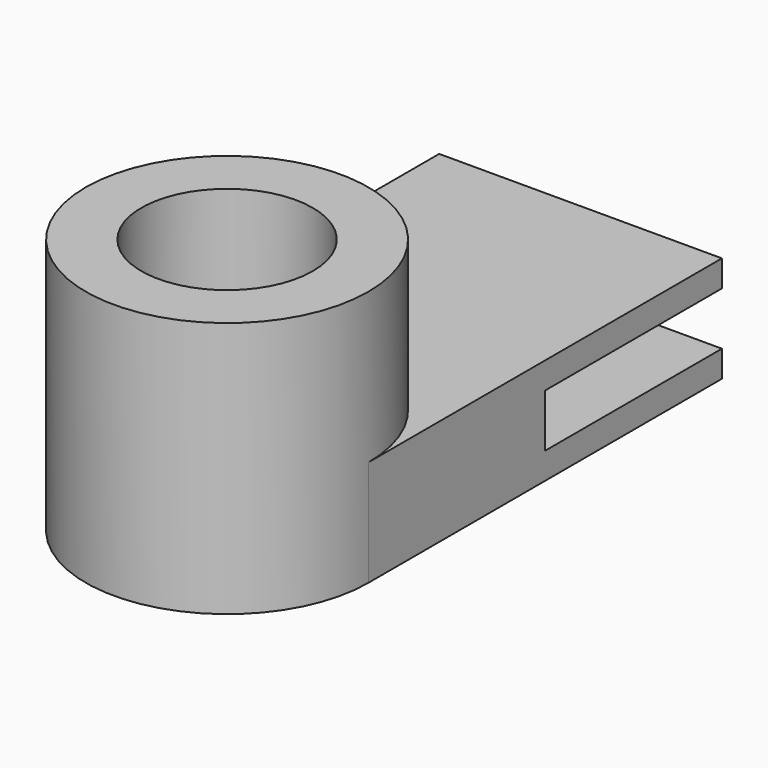
from build123d import *

# Parameters (mm, degrees)
F0_R     = 16
F0_R_2   = 9.7
F1_DEPTH = 29
F2_R     = 9.75
F3_DEPTH = 12
F4_W     = 32
F4_H     = 6
F5_DEPTH = 25


with BuildPart() as f1:
    # F0 (on Top) → F1 (new body)
    with BuildSketch(Plane.XY):
        Circle(F0_R)
        Circle(F0_R_2, mode=Mode.SUBTRACT)
    extrude(amount=F1_DEPTH)

    # F2 (on Top) → F3 (join)
    with BuildSketch(Plane.XY):
        with BuildLine():
            Line((-16, 50), (-16, 0))
            ThreePointArc((-16, 0), (0, 16), (16, 0))
            Line((16, 0), (16, 50))
            Line((16, 50), (-16, 50))
        make_face()
        with BuildLine():
            ThreePointArc((16, 0), (0, 16), (-16, 0))
            ThreePointArc((-16, 0), (0, -16), (16, 0))
        make_face()
        Circle(F2_R, mode=Mode.SUBTRACT)
    extrude(amount=F3_DEPTH)

    # F4 (on face) → F5 (cut)
    with BuildSketch(Plane(origin=(0, 50, 0), x_dir=(-1, 0, 0), z_dir=(0, 1, 0))):
        with Locations((0, 6)):
            Rectangle(F4_W, F4_H)
    extrude(amount=-F5_DEPTH, mode=Mode.SUBTRACT)


solid = f1.part
